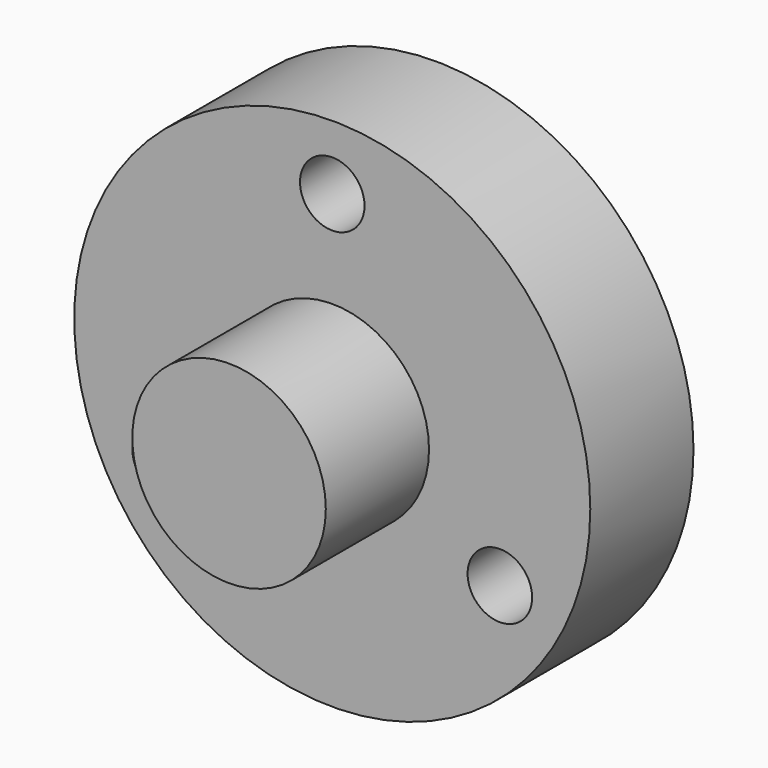
from build123d import *

# Parameters (mm, degrees)
F0_R     = 101.6
F1_DEPTH = 50.8
F2_R     = 38.1
F3_DEPTH = 50.8
F4_R     = 12.7
F5_DEPTH = 87.376


with BuildPart() as f1:
    # F0 (on Front) → F1 (new body)
    with BuildSketch(Plane.XZ):
        Circle(F0_R)
    extrude(amount=F1_DEPTH)

    # F2 (on face) → F3 (join)
    with BuildSketch(Plane.XZ.offset(50.8)):
        Circle(F2_R)
    extrude(amount=F3_DEPTH)

    # F4 (on face) → F5 (cut)
    with BuildSketch(Plane.XZ.offset(50.8)):
        with Locations((0, 76.2)):
            Circle(F4_R)
        with Locations((-65.991136, -38.1)):
            Circle(F4_R)
        with Locations((65.991136, -38.1)):
            Circle(F4_R)
    extrude(amount=-F5_DEPTH, mode=Mode.SUBTRACT)


solid = f1.part
